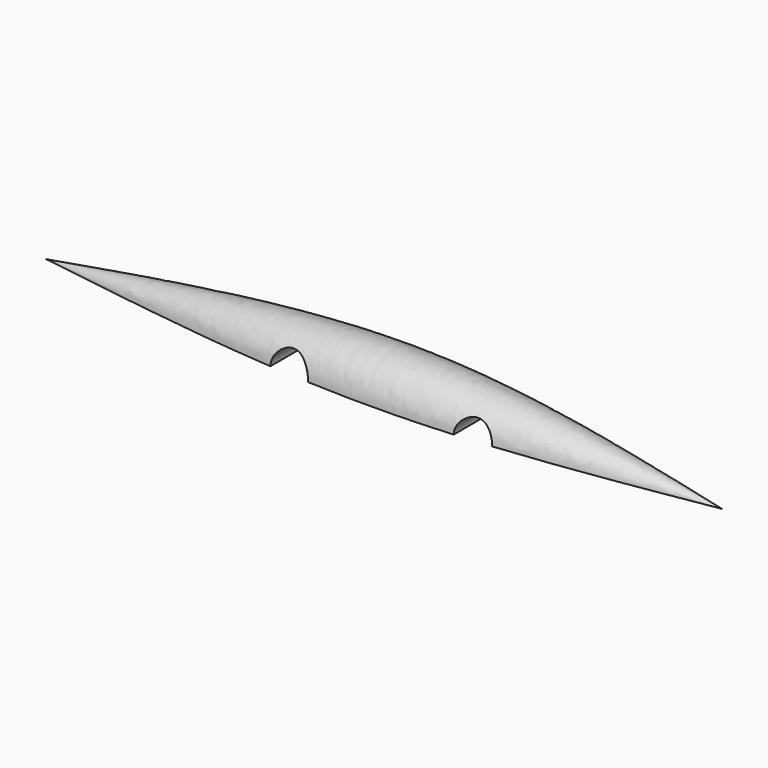
from build123d import *

# Parameters (mm, degrees)
F1_ANGLE      = 180
F2_R          = 3.9973769872
F2_R_2        = 3.614591246
F3_DEPTH      = 7.2390632276
F3_DEPTH_BACK = 25.4


with BuildPart() as f1:
    # F0 (on Top) → F1 (revolve)
    with BuildSketch(Plane.XY):
        with BuildLine():
            add(Edge.make_bspline(
                [(0, 0), (23.9424614, 3.6743346017), (70.7544254358, 10.8583432184), (114.3867719938, 3.5637158267), (135.7029080391, 0)],
                knots=[0, 0, 0, 0, 0.5114602064, 1, 1, 1, 1], degree=3))
            Line((0, 0), (135.7029080391, 0))
        make_face()
    revolve(axis=Axis((67.8514540195, 0, 0), (1, 0, 0)), revolution_arc=F1_ANGLE)

    # F2 (on Front) → F3 (cut, two sides)
    with BuildSketch(Plane.XZ) as f3_sk:
        with Locations((54.1759431362, 0)):
            Circle(F2_R)
        with Locations((90.7356441021, 0)):
            Circle(F2_R_2)
    extrude(amount=F3_DEPTH, mode=Mode.SUBTRACT)
    extrude(f3_sk.sketch, amount=-F3_DEPTH_BACK, mode=Mode.SUBTRACT)


solid = f1.part
